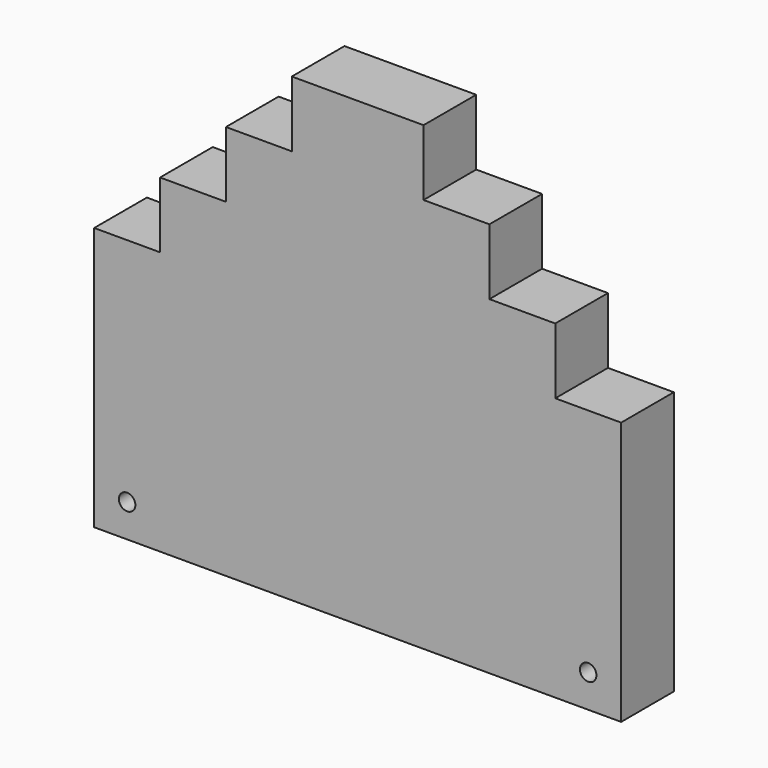
from build123d import *

# Parameters (mm, degrees)
F0_W     = 25.4
F0_H     = 101.6
F0_R     = 3.175
F1_DEPTH = 25.4


with BuildPart() as f1:
    # F0 (on Front) → F1 (new body)
    with BuildSketch(Plane.XZ):
        with Locations((-88.9, 50.8)):
            Rectangle(F0_W, F0_H)
        with Locations((-88.9, 12.7)):
            Circle(F0_R, mode=Mode.SUBTRACT)
        Polygon((-76.2, 0), (-50.8, 0), (-50.8, 127), (-76.2, 127), (-76.2, 101.6), align=None)
        Polygon((-50.8, 0), (-25.4, 0), (-25.4, 152.4), (-50.8, 152.4), (-50.8, 127), align=None)
        Polygon((-25.4, 0), (0, 0), (0, 177.8), (-25.4, 177.8), (-25.4, 152.4), align=None)
        Polygon((0, 177.8), (0, 0), (25.4, 0), (25.4, 152.4), (25.4, 177.8), align=None)
        Polygon((25.4, 152.4), (25.4, 0), (50.8, 0), (50.8, 127), (50.8, 152.4), align=None)
        Polygon((50.8, 127), (50.8, 0), (76.2, 0), (76.2, 101.6), (76.2, 127), align=None)
        with Locations((88.9, 50.8)):
            Rectangle(F0_W, F0_H)
        with Locations((88.9, 12.7)):
            Circle(F0_R, mode=Mode.SUBTRACT)
    extrude(amount=F1_DEPTH)


solid = f1.part
